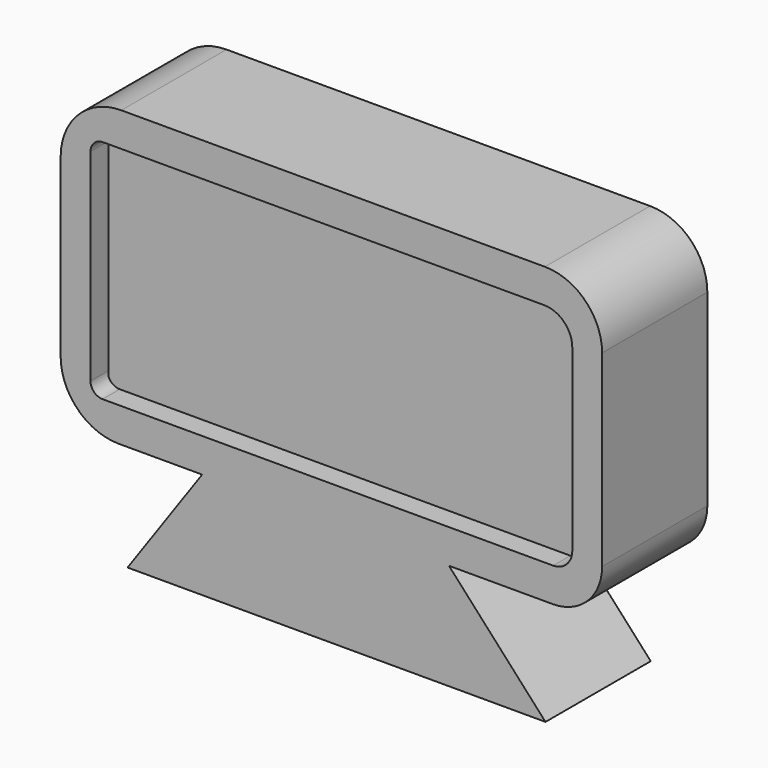
from build123d import *

# Parameters (mm, degrees)
F1_DEPTH = 26.416
F2_W     = 96.342794
F2_H     = 45.070231
F3_DEPTH = 22.098


with BuildPart() as f1:
    # F0 (on Front) → F1 (new body)
    with BuildSketch(Plane.XZ):
        with BuildLine():
            Line((42.877077, 52.316071), (-42.193984, 52.316071))
            ThreePointArc((-42.193984, 52.316071), (-50.806357, 48.748709), (-54.373719, 40.136336))
            Line((-54.373719, 40.136336), (-54.373719, 4.850378))
            ThreePointArc((-54.373719, 4.850378), (-50.957663, -3.396709), (-42.710576, -6.812765))
            Line((-42.710576, -6.812765), (-25.95896, -6.812765))
            Line((-25.95896, -6.812765), (23.615748, -6.812765))
            Line((23.615748, -6.812765), (44.507051, -6.812765))
            ThreePointArc((44.507051, -6.812765), (51.483839, -3.922885), (54.373719, 3.053903))
            Line((54.373719, 3.053903), (54.373719, 40.81943))
            ThreePointArc((54.373719, 40.81943), (51.006431, 48.948783), (42.877077, 52.316071))
        make_face()
        with BuildLine():
            ThreePointArc((-48.378143, 43.012887), (-47.65402, 44.761075), (-45.905832, 45.485198))
            Line((-45.905832, 45.485198), (42.722448, 45.485198))
            ThreePointArc((42.722448, 45.485198), (46.721629, 43.828684), (48.378143, 39.829503))
            Line((48.378143, 39.829503), (48.378143, 3.861538))
            ThreePointArc((48.378143, 3.861538), (47.252429, 1.143823), (44.534713, 0.018108))
            Line((44.534713, 0.018108), (-45.961362, 0.018108))
            ThreePointArc((-45.961362, 0.018108), (-47.670285, 0.725967), (-48.378143, 2.434889))
            Line((-48.378143, 2.434889), (-48.378143, 43.012887))
        make_face(mode=Mode.SUBTRACT)
        Polygon((23.615748, -6.812765), (-25.95896, -6.812765), (-40.935349, -28.11721), (43.002788, -28.11721), align=None)
    extrude(amount=F1_DEPTH)

    # F2 (on Front) → F3 (join)
    with BuildSketch(Plane.XZ):
        with Locations((0, 22.535115)):
            Rectangle(F2_W, F2_H)
    extrude(amount=F3_DEPTH)


solid = f1.part
